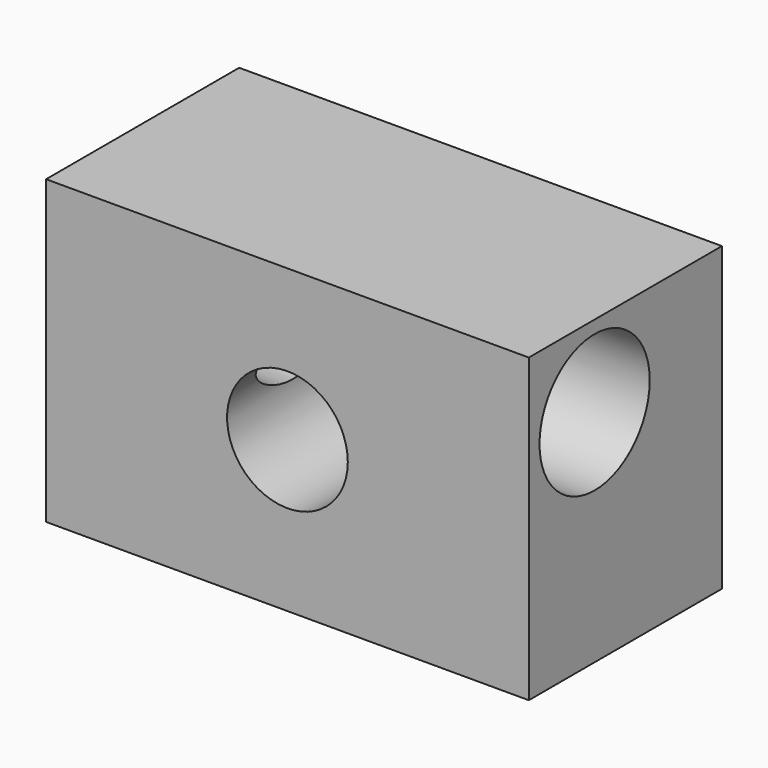
from build123d import *

# Parameters (mm, degrees)
F0_W     = 101.6
F0_H     = 63.5
F0_R     = 12.7
F1_DEPTH = 50.8
F2_R     = 14.492488
F3_DEPTH = 101.601


with BuildPart() as f1:
    # F0 (on Front) → F1 (new body)
    with BuildSketch(Plane.XZ):
        Rectangle(F0_W, F0_H)
        Circle(F0_R, mode=Mode.SUBTRACT)
    extrude(amount=F1_DEPTH)

    # F2 (on face) → F3 (cut, through all)
    with BuildSketch(Plane.YZ.offset(50.8)):
        with Locations((-33.488799, 14.576617)):
            Circle(F2_R)
    extrude(amount=-F3_DEPTH, mode=Mode.SUBTRACT)


solid = f1.part
